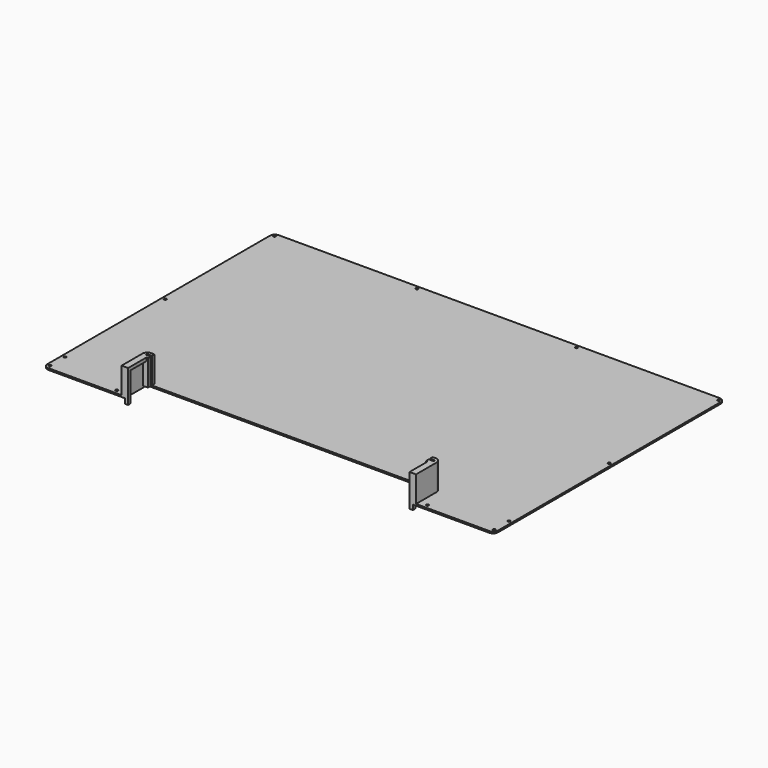
from build123d import *

# Parameters (mm, degrees)
F2_DEPTH = 16
F4_DEPTH = 1
F5_W     = 2
F5_H     = 2
F6_DEPTH = 20
F7_W     = 2
F7_H     = 12
F8_DEPTH = 2
F10_D    = 1.5
F11_R    = 3


with BuildPart() as f2:
    # F1 (on Top) → F2 (new body)
    with BuildSketch(Plane.XY):
        Polygon((-91.098284, -40.672917), (-91.098284, -59.672917), (-89.098284, -59.672917), (-89.098284, -45.672917), (-86.098284, -45.672917), (-86.098284, -43.672917), (-89.098284, -43.672917), (-89.098284, -42.672917), (-86.098284, -42.672917), (-86.098284, -40.672917), align=None)
        Polygon((84.901716, -42.672917), (87.901716, -42.672917), (87.901716, -43.672917), (84.901716, -43.672917), (84.901716, -45.672917), (87.901716, -45.672917), (87.901716, -59.672917), (89.901716, -59.672917), (89.901716, -40.672917), (84.901716, -40.672917), align=None)
    extrude(amount=F2_DEPTH)

    # F3 (on Top) → F4 (join)
    with BuildSketch(Plane.XY):
        Polygon((-139.098284, -59.672917), (-89.098284, -59.672917), (-89.098284, -42.672917), (87.901716, -42.672917), (87.901716, -59.672917), (137.901716, -59.672917), (137.901716, 117.327083), (-139.098284, 117.327083), align=None)
    extrude(amount=-F4_DEPTH)

    # F5 (on face) → F6 (join)
    with BuildSketch(Plane.XY.offset(16)):
        with Locations((-88.098284, -58.672917)):
            Rectangle(F5_W, F5_H)
        with Locations((86.901716, -58.672917)):
            Rectangle(F5_W, F5_H)
    extrude(amount=-F6_DEPTH)

    # F7 (on face) → F8 (join)
    with BuildSketch(Plane.XY.offset(16)):
        with Locations((-88.098284, -51.672917)):
            Rectangle(F7_W, F7_H)
        with Locations((86.901716, -51.672917)):
            Rectangle(F7_W, F7_H)
    extrude(amount=-F8_DEPTH)

    # F10 (through all)
    with Locations(Plane.XY):
        with Locations((-49.598284, 115.327083), (-137.098284, 31.327083), (-137.098284, -57.172917), (-137.098284, -45.672917), (-137.098284, 115.327083), (135.901716, -45.672917), (-96.098284, -57.172917), (94.901716, -57.172917), (135.901716, -57.172917), (48.401716, 115.327083), (135.901716, 115.327083), (135.901716, 31.327083)):
            Hole(F10_D / 2)

    # F11
    f11_edges = [f2.edges().sort_by_distance(p)[0] for p in [
        (-139.098284, 117.327083, -0.5),
        (137.901716, 117.327083, -0.5),
        (-91.098284, -40.672917, 8),
        (-139.098284, -59.672917, -0.5),
        (89.901716, -40.672917, 8),
        (137.901716, -59.672917, -0.5),
    ]]
    fillet(f11_edges, radius=F11_R)


solid = f2.part
